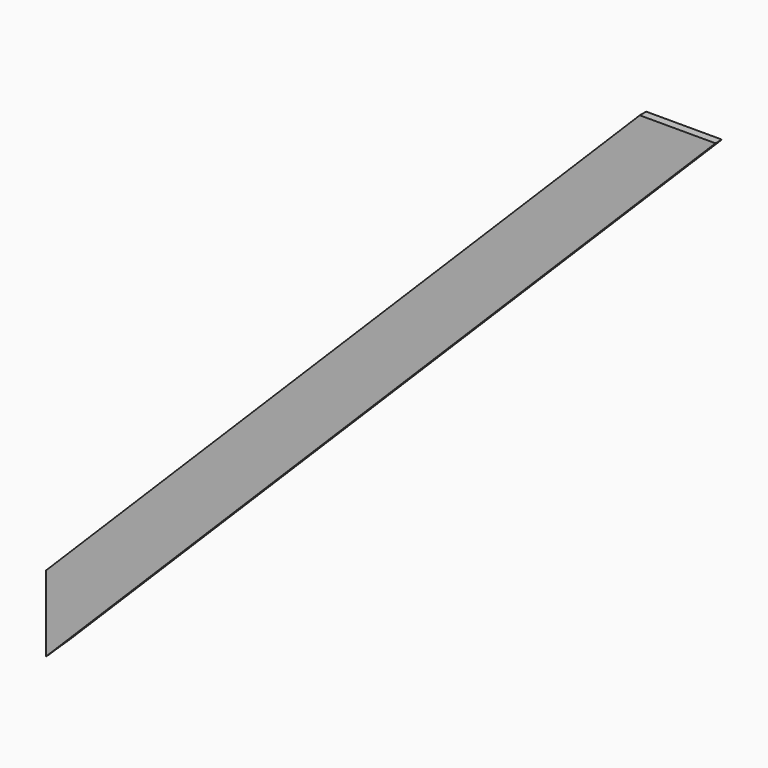
from build123d import *

# Parameters (mm, degrees)
F1_DEPTH = 6
F2_R     = 24.15
F3_DEPTH = 500.001


with BuildPart() as f1:
    # F0 (on Front) → F1 (new body)
    with BuildSketch(Plane.XZ):
        Polygon((0, 56.568542), (0, 0), (500, 500), (443.431458, 500), align=None)
        Polygon((0, 56.568542), (0, 0), (500, 500), (443.431458, 500), align=None)
    extrude(amount=F1_DEPTH)

    # F2 (on Top) → F3 (cut, through all)
    with BuildSketch(Plane.XY):
        with Locations((0, 20.65)):
            Circle(F2_R)
    extrude(amount=F3_DEPTH, mode=Mode.SUBTRACT)


solid = f1.part
